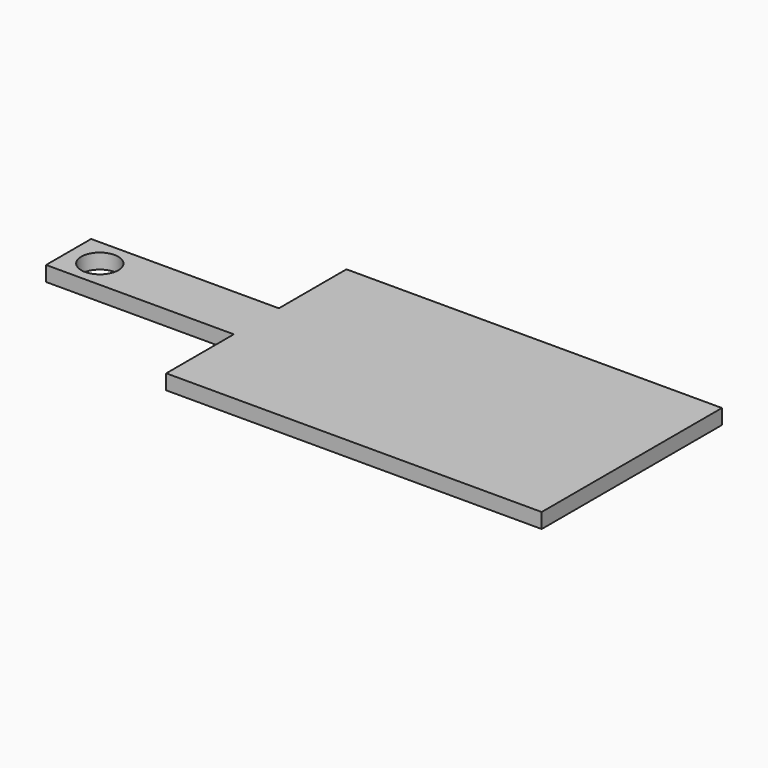
from build123d import *

# Parameters (mm, degrees)
F0_W     = 63.5
F0_H     = 19.05
F1_DEPTH = 5.08
F2_R     = 6.25424
F3_DEPTH = 25.4


with BuildPart() as f1:
    # F0 (on Top) → F1 (new body)
    with BuildSketch(Plane.XY):
        Polygon((0, 28.575), (0, 0), (127, 0), (127, 76.2), (0, 76.2), (0, 47.625), align=None)
        with Locations((-31.75, 38.1)):
            Rectangle(F0_W, F0_H)
    extrude(amount=F1_DEPTH)

    # F2 (on face) → F3 (cut)
    with BuildSketch(Plane.XY.offset(5.08)):
        with Locations((-52.953325, 38.1)):
            Circle(F2_R)
    extrude(amount=-F3_DEPTH, mode=Mode.SUBTRACT)


solid = f1.part
